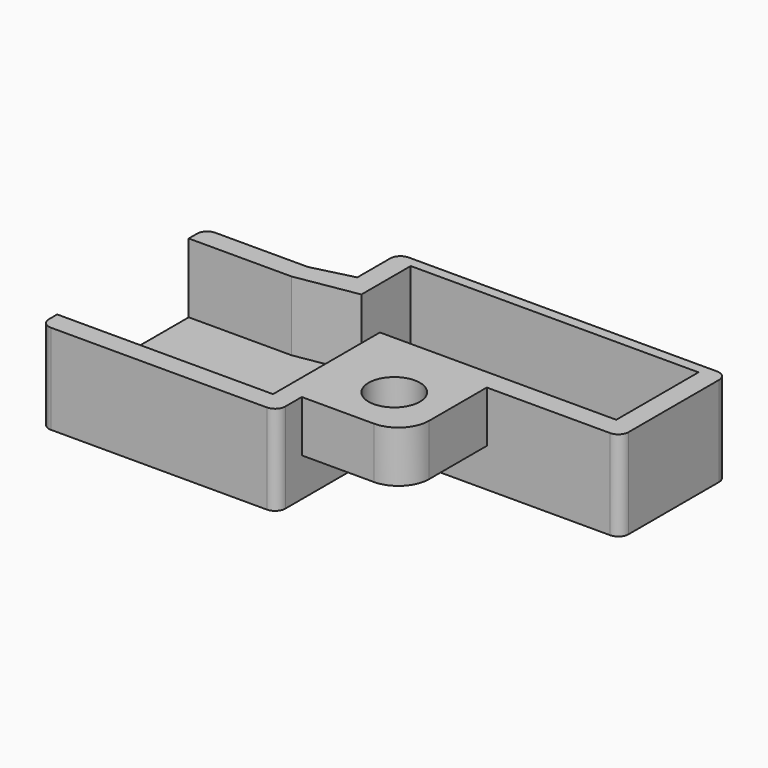
from build123d import *

# Parameters (mm, degrees)
PAD098_DEPTH    = 2
PAD099_DEPTH    = 6.75
SKETCH137_W     = 2
SKETCH137_H     = 23
SKETCH137_W_2   = 21
SKETCH137_H_2   = 2
POCKET040_DEPTH = 1
SKETCH138_W     = 10
SKETCH138_H     = 10
PAD100_DEPTH    = 5
SKETCH139_R     = 2.5
POCKET041_DEPTH = 5
FILLET024_R     = 2.99
FILLET025_R     = 1
FILLET026_R     = 3


with BuildPart() as part:
    # Sketch135 → Pad098 (new body)
    with BuildSketch(Plane.XY):
        Polygon((-23, 18), (-23, 0), (0, 0), (0, 13), (23, 13), (23, 26), (-7, 26), (-9, 26), (-9, 21), (-13, 20), (-23, 20), align=None)
    extrude(amount=PAD098_DEPTH)

    # Sketch136 (on Face13 of Pad098) → Pad099 (join)
    with BuildSketch(Plane.XY.offset(2)):
        Polygon((-23, 0), (0, 0), (0, 13), (23, 13), (23, 26), (-9, 26), (-9, 21), (-13, 20), (-23, 20), (-23, 18), (-13, 18), (-7, 19), (-7, 25), (21, 25), (21, 15), (-2, 15), (-2, 2), (-23, 2), align=None)
    extrude(amount=PAD099_DEPTH)

    # Sketch137 (on Face7 of Pad099) → Pocket040 (cut)
    with BuildSketch(Plane.XY.offset(2)):
        with Locations((-6, 13.5)):
            Rectangle(SKETCH137_W, SKETCH137_H)
        with Locations((6.5, 17)):
            Rectangle(SKETCH137_W_2, SKETCH137_H_2)
    extrude(amount=-POCKET040_DEPTH, mode=Mode.SUBTRACT)

    # Sketch138 (on Face18 of Pocket040) → Pad100 (join)
    with BuildSketch(Plane.XY.offset(8.75)):
        with Locations((5, 8)):
            Rectangle(SKETCH138_W, SKETCH138_H)
    extrude(amount=-PAD100_DEPTH)

    # Sketch139 (on Face29 of Pad100) → Pocket041 (cut)
    with BuildSketch(Plane.XY.offset(8.75)):
        with Locations((5, 8)):
            Circle(SKETCH139_R)
    extrude(amount=-POCKET041_DEPTH, mode=Mode.SUBTRACT)

    # Fillet024
    fillet024_edges = [part.edges().sort_by_distance(p)[0] for p in [
        (10, 3, 6.25),
    ]]
    fillet(fillet024_edges, radius=FILLET024_R)

    # Fillet025
    fillet025_edges = [part.edges().sort_by_distance(p)[0] for p in [
        (23, 13, 1),
        (23, 13, 5.375),
        (0, 0, 5.375),
        (0, 0, 1),
        (-23, 0, 5.375),
        (-23, 0, 1),
        (23, 26, 1),
        (23, 26, 5.375),
        (-23, 20, 1),
        (-23, 20, 5.375),
        (-9, 26, 1),
        (-9, 26, 5.375),
    ]]
    fillet(fillet025_edges, radius=FILLET025_R)

    # Fillet026
    fillet026_edges = [part.edges().sort_by_distance(p)[0] for p in [
        (0, 13, 2.875),
        (0, 13, 1),
    ]]
    fillet(fillet026_edges, radius=FILLET026_R)


solid = part.part
